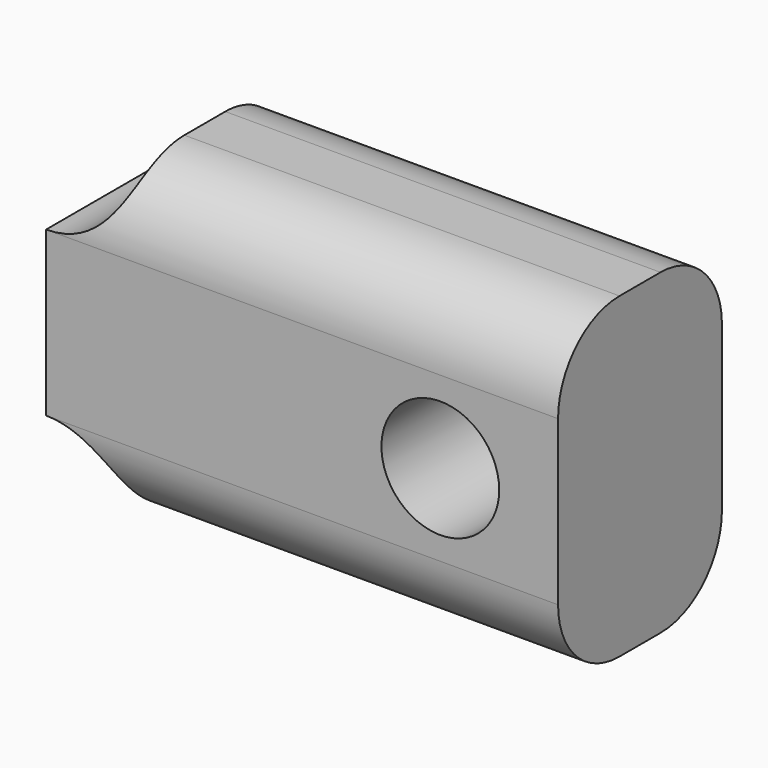
from build123d import *

# Parameters (mm, degrees)
F0_R     = 1.15
F1_DEPTH = 4
F2_R     = 1.5
F3_DEPTH = 5
F4_R     = 1.5


with BuildPart() as f1:
    # F0 (on Front) → F1 (new body)
    with BuildSketch(Plane.XZ):
        with BuildLine():
            Line((-3.5, -3.1), (5, -3.1))
            Line((5, -3.1), (5, 3.1))
            Line((5, 3.1), (-3.5, 3.1))
            ThreePointArc((-3.5, 3.1), (-3.93934, 2.03934), (-5, 1.6))
            Line((-5, 1.6), (-5, -1.6))
            ThreePointArc((-5, -1.6), (-3.93934, -2.03934), (-3.5, -3.1))
        make_face()
        with Locations((2.7, 0)):
            Circle(F0_R, mode=Mode.SUBTRACT)
    extrude(amount=F1_DEPTH)

    # F2 (on face) → F3 (cut)
    with BuildSketch(Plane(origin=(-5, 0, 0), x_dir=(0, -1, 0), z_dir=(-1, 0, 0))):
        with Locations((2, 0)):
            Circle(F2_R)
    extrude(amount=-F3_DEPTH, mode=Mode.SUBTRACT)

    # F4
    f4_edges = [f1.edges().sort_by_distance(p)[0] for p in [
        (0.75, -4, -3.1),
        (0.75, -4, 3.1),
        (0.75, 0, -3.1),
        (0.75, 0, 3.1),
    ]]
    fillet(f4_edges, radius=F4_R)


solid = f1.part
